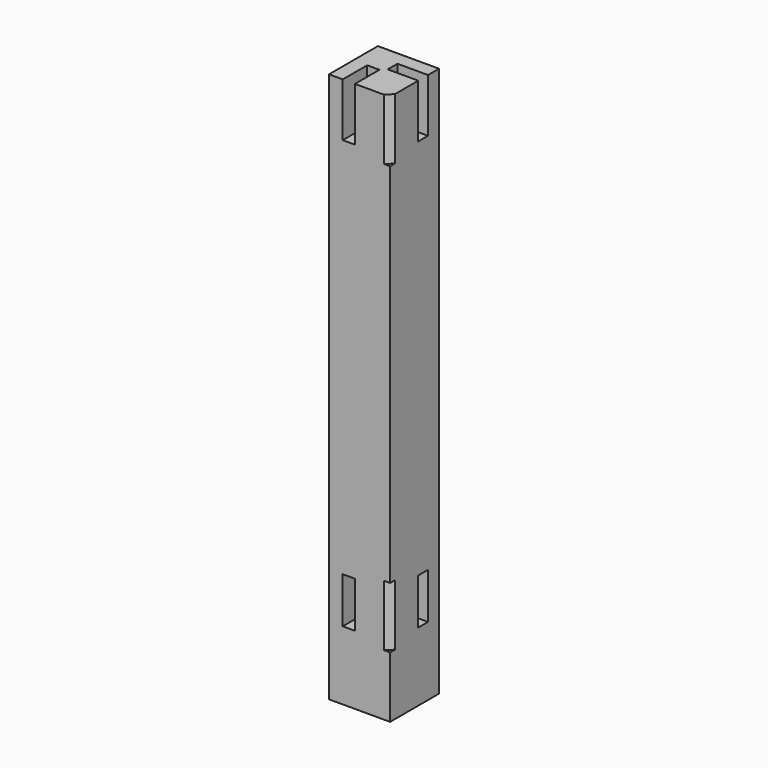
from build123d import *

# Parameters (mm, degrees)
F1_W      = 100
F1_H      = 100
F3_DEPTH  = 900
F4_W      = 20
F4_H      = 75
F5_DEPTH  = 50
F6_W      = 20
F6_H      = 75
F7_DEPTH  = 50
F9_DEPTH  = 100
F12_W     = 50
F12_H     = 20
F12_W_2   = 20
F12_H_2   = 50
F13_DEPTH = 87.5
F15_DEPTH = 100


with BuildPart() as f3:
    # F1 (on Top) → F3 (new body)
    with BuildSketch(Plane.XY):
        Rectangle(F1_W, F1_H)
    extrude(amount=F3_DEPTH)

    # F4 (on face) → F5 (cut)
    with BuildSketch(Plane.YZ.offset(50)):
        with Locations((17.5, 150)):
            Rectangle(F4_W, F4_H)
    extrude(amount=-F5_DEPTH, mode=Mode.SUBTRACT)

    # F6 (on face) → F7 (cut)
    with BuildSketch(Plane.XZ.offset(50)):
        with Locations((-17.5, 150)):
            Rectangle(F6_W, F6_H)
    extrude(amount=-F7_DEPTH, mode=Mode.SUBTRACT)


with BuildPart() as f9:
    # F8 (on Top) → F9 (new body)
    with BuildSketch(Plane.XY):
        Polygon((50, -40), (40, -50), (50, -50), align=None)
    extrude(amount=F9_DEPTH)


with BuildPart() as f9_1:
    # F10: moved
    add(f9.part.moved(Location((0, 0, 100))))


with BuildPart() as f3_1:
    add(f3.part)

    # F11: cut F9
    add(f9_1.part, mode=Mode.SUBTRACT)

    # F12 (on face) → F13 (cut)
    with BuildSketch(Plane.XY.offset(900)):
        with Locations((25, 17.5)):
            Rectangle(F12_W, F12_H)
        with Locations((-17.5, -25)):
            Rectangle(F12_W_2, F12_H_2)
    extrude(amount=-F13_DEPTH, mode=Mode.SUBTRACT)

    # F12 (on face) → F15 (cut)
    with BuildSketch(Plane.XY.offset(900)):
        Polygon((50, -50), (50, -40), (40, -50), align=None)
    extrude(amount=-F15_DEPTH, mode=Mode.SUBTRACT)


solid = f3_1.part
